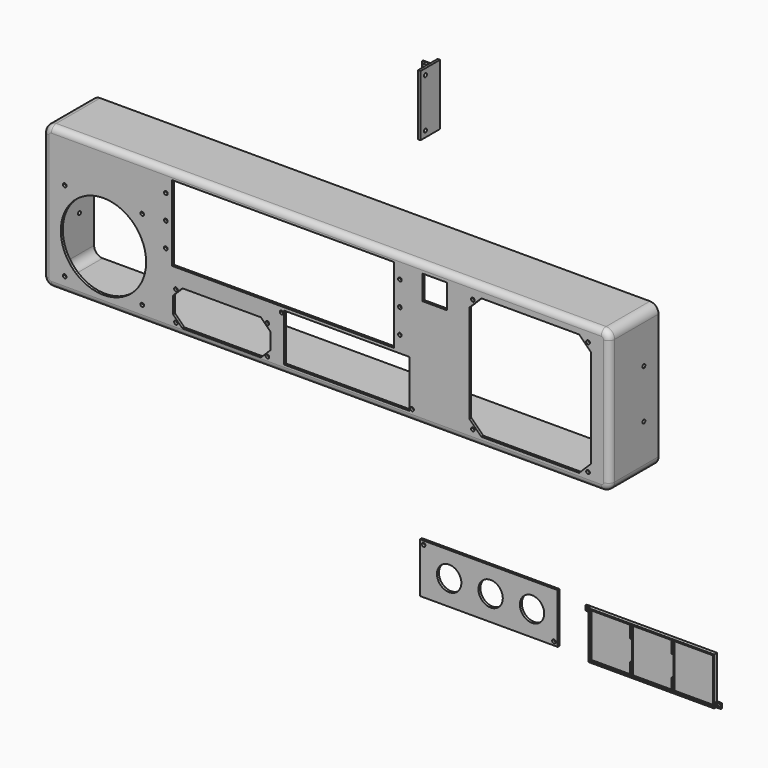
from build123d import *

# Parameters (mm, degrees)
F0_W            = 465
F0_H            = 117
F1_DEPTH        = 50
F2_T            = -2
F4_R            = 7
F3_W            = 182
F3_H            = 62
F3_W_2          = 20
F3_H_2          = 20
F3_R            = 1.5
F3_W_3          = 93
F3_H_3          = 36
F3_R_2          = 9.5
F3_R_3          = 35
F3_W_4          = 103
F3_H_4          = 39
F5_DEPTH        = 25
F6_R            = 5
F8_R            = 1.5
F9_DEPTH        = 500
F10_W           = 20
F10_H           = 50
F10_R           = 1.5
F11_DEPTH       = 2
F12_W           = 12
F12_H           = 40
F13_DEPTH       = 2
F15_D           = 3
F15_CSINK_D     = 5.7
F15_CSINK_ANGLE = 90
F16_SIZE        = 1
F17_W           = 113
F17_H           = 41
F17_R           = 1.5
F17_R_2         = 10
F18_DEPTH       = 2
F20_DEPTH       = 3
F19_W           = 4
F19_H           = 4
F19_R           = 1.5
F21_DEPTH       = 1
F23_DEPTH       = 2
F22_W           = 1
F22_H           = 17
F24_DEPTH       = 3


with BuildPart() as f1:
    # F0 (on Front) → F1 (new body)
    with BuildSketch(Plane.XZ):
        with Locations((-12.6529467106, 27.1878533959)):
            Rectangle(F0_W, F0_H)
        with Locations((-12.6529467106, 27.1878533959)):
            Rectangle(F0_W, F0_H)
    extrude(amount=F1_DEPTH)

    # F2
    f2_openings = [f1.faces().sort_by_distance(p)[0] for p in [
        (-12.652947, 0, 27.187853),
    ]]
    offset(amount=F2_T, openings=f2_openings)

    # F4
    f4_edges = [f1.edges().sort_by_distance(p)[0] for p in [
        (-245.152947, -25, 85.687853),
        (219.847053, -25, 85.687853),
        (219.847053, -25, -31.312147),
        (-245.152947, -25, -31.312147),
        (-243.152947, -24, 83.687853),
        (-243.152947, -24, -29.312147),
        (217.847053, -24, -29.312147),
        (217.847053, -24, 83.687853),
    ]]
    fillet(f4_edges, radius=F4_R)

    # F3 (on face) → F5 (cut)
    with BuildSketch(Plane.XZ.offset(50)):
        with Locations((-48.312419115, 48.0203691069)):
            Rectangle(F3_W, F3_H)
        with Locations((76.3836680665, 68.3190373614)):
            Rectangle(F3_W_2, F3_H_2)
        Polygon((194.7213235501, 76.111191912), (114.5203134233, 76.111191912), (104.6208184867, 66.2116969754), (104.6208184867, -13.9893131514), (114.5203134233, -23.888808088), (194.7213235501, -23.888808088), (204.6208184867, -13.9893131514), (204.6208184867, 66.2116969754), align=None)
        with Locations((47.687580885, 68.0203691069)):
            Circle(F3_R)
        with Locations((47.687580885, 48.0203691069)):
            Circle(F3_R)
        with Locations((47.687580885, 28.0203691069)):
            Circle(F3_R)
        with Locations((107.5167332374, 72.8625404379)):
            Circle(F3_R)
        with Locations((80.878779198, -82.3583360478)):
            Rectangle(F3_W_3, F3_H_3)
        with Locations((51.3206828289, -84.0745766136)):
            Circle(F3_R_2, mode=Mode.SUBTRACT)
        with Locations((81.3476530956, -84.0745766136)):
            Circle(F3_R_2, mode=Mode.SUBTRACT)
        with Locations((38.378779198, -68.3583360478)):
            Circle(F3_R, mode=Mode.SUBTRACT)
        with Locations((123.378779198, -96.3583360478)):
            Circle(F3_R, mode=Mode.SUBTRACT)
        with Locations((110.7360261029, -84.0745766136)):
            Circle(F3_R_2, mode=Mode.SUBTRACT)
        Polygon((-66.2842570873, 3.6055132091), (-130.7279079012, 3.6055132091), (-138.5060824942, -4.172661384), (-138.5060824942, -17.6163121979), (-130.7279079012, -25.3944867909), (-66.2842570873, -25.3944867909), (-58.5060824942, -17.6163121979), (-58.5060824942, -4.172661384), align=None)
        with Locations((-136.0060824942, 1.1055132091)):
            Circle(F3_R)
        with Locations((-136.0060824942, -22.8944867909)):
            Circle(F3_R)
        with Locations((-61.0060824942, 1.1055132091)):
            Circle(F3_R)
        with Locations((-61.0060824942, -22.8944867909)):
            Circle(F3_R)
        with Locations((107.5167332374, -20.8455865502)):
            Circle(F3_R)
        with Locations((202.0370356229, -20.8455660029)):
            Circle(F3_R)
        with Locations((202.0370356229, 72.8625404379)):
            Circle(F3_R)
        with Locations((-195.4793932134, 12.7347313118)):
            Circle(F3_R_3)
        with Locations((-144.312419115, 68.0203691069)):
            Circle(F3_R)
        with Locations((-144.312419115, 48.0203691069)):
            Circle(F3_R)
        with Locations((-144.312419115, 28.0203691069)):
            Circle(F3_R)
        with Locations((-227.2830040105, 46.6578847659)):
            Circle(F3_R)
        with Locations((-227.2830040105, -19.1012599602)):
            Circle(F3_R)
        with Locations((-163.6415483004, -19.1012599602)):
            Circle(F3_R)
        with Locations((-163.6757824164, 46.6578847659)):
            Circle(F3_R)
        with Locations((-49.3271809206, 12.611191912)):
            Circle(F3_R)
        with Locations((57.6728190794, -22.388808088)):
            Circle(F3_R)
        with Locations((4.1728190794, -4.888808088)):
            Rectangle(F3_W_4, F3_H_4)
    extrude(amount=-F5_DEPTH, mode=Mode.SUBTRACT)

    # F6
    f6_edges = [f1.edges().sort_by_distance(p)[0] for p in [
        (217.796801, -50, 83.637601),
    ]]
    fillet(f6_edges, radius=F6_R)

    # F8 (on face) → F9 (cut)
    with BuildSketch(Plane(origin=(-245.1529467106, 0, 0), x_dir=(0, -1, 0), z_dir=(-1, 0, 0))):
        with Locations((15, 47.1878533959)):
            Circle(F8_R)
        with Locations((15, 7.1878533959)):
            Circle(F8_R)
    extrude(amount=-F9_DEPTH, mode=Mode.SUBTRACT)


with BuildPart() as f11:
    # F10 (on Right) → F11 (new body)
    with BuildSketch(Plane.YZ):
        with Locations((38.3660052121, 146.8174463511)):
            Rectangle(F10_W, F10_H)
        with Locations((33.3660052121, 126.8174463511)):
            Circle(F10_R, mode=Mode.SUBTRACT)
        with Locations((33.3660052121, 166.8174463511)):
            Circle(F10_R, mode=Mode.SUBTRACT)
    extrude(amount=F11_DEPTH)

    # F12 (on face) → F13 (join)
    with BuildSketch(Plane(origin=(0, 48.3660052121, 0), x_dir=(-1, 0, 0), z_dir=(0, 1, 0))):
        with Locations((6, 146.8174463511)):
            Rectangle(F12_W, F12_H)
    extrude(amount=-F13_DEPTH)

    # F15 (through all)
    with Locations(Plane.XZ.offset(-46.3660052121)):
        with Locations((-7, 156.8174463511), (-7, 136.8174463511)):
            CounterSinkHole(F15_D / 2, F15_CSINK_D / 2, counter_sink_angle=F15_CSINK_ANGLE)

    # F16
    f16_edges = [f11.edges().sort_by_distance(p)[0] for p in [
        (-6, 46.366005, 166.817446),
        (-12, 46.366005, 146.817446),
        (-6, 46.366005, 126.817446),
    ]]
    chamfer(f16_edges, length=F16_SIZE)


with BuildPart() as f18:
    # F17 (on Front) → F18 (new body)
    with BuildSketch(Plane.XZ):
        with Locations((82.2173821926, -166.7715502977)):
            Rectangle(F17_W, F17_H)
        with Locations((135.7173821926, -184.2715502977)):
            Circle(F17_R, mode=Mode.SUBTRACT)
        with Locations((49.7173821926, -166.7715502977)):
            Circle(F17_R_2, mode=Mode.SUBTRACT)
        with Locations((28.7173821926, -149.2715502977)):
            Circle(F17_R, mode=Mode.SUBTRACT)
        with Locations((83.7173821926, -166.7715502977)):
            Circle(F17_R_2, mode=Mode.SUBTRACT)
        with Locations((117.7173821926, -166.7715502977)):
            Circle(F17_R_2, mode=Mode.SUBTRACT)
    extrude(amount=F18_DEPTH)


with BuildPart() as f20:
    # F19 (on Front) → F20 (new body)
    with BuildSketch(Plane.XZ):
        Polygon((267.8700156212, -150.314532876), (164.8700156212, -150.314532876), (164.8700156212, -154.314532876), (164.8700156212, -189.314532876), (267.8700156212, -189.314532876), (267.8700156212, -185.314532876), align=None)
    extrude(amount=F20_DEPTH)

    # F19 (on Front) → F21 (join)
    with BuildSketch(Plane.XZ):
        with Locations((162.8700156212, -152.314532876)):
            Rectangle(F19_W, F19_H)
        with Locations((162.8700156212, -152.314532876)):
            Circle(F19_R, mode=Mode.SUBTRACT)
        with Locations((269.8700156212, -187.314532876)):
            Rectangle(F19_W, F19_H)
        with Locations((269.8700156212, -187.314532876)):
            Circle(F19_R, mode=Mode.SUBTRACT)
    extrude(amount=F21_DEPTH)

    # F22 (on face) → F23 (cut)
    with BuildSketch(Plane.XZ.offset(3)):
        Polygon((198.8700156212, -151.314532876), (165.8700156212, -151.314532876), (165.8700156212, -188.314532876), (198.8700156212, -188.314532876), (198.8700156212, -178.314532876), (198.8700156212, -161.314532876), align=None)
        Polygon((199.8700156212, -151.314532876), (199.8700156212, -161.314532876), (199.8700156212, -178.314532876), (199.8700156212, -188.314532876), (232.8700156212, -188.314532876), (232.8700156212, -178.314532876), (232.8700156212, -161.314532876), (232.8700156212, -151.314532876), align=None)
        Polygon((233.8700156212, -151.314532876), (233.8700156212, -161.314532876), (233.8700156212, -178.314532876), (233.8700156212, -188.314532876), (266.8700156212, -188.314532876), (266.8700156212, -151.314532876), align=None)
    extrude(amount=-F23_DEPTH, mode=Mode.SUBTRACT)

    # F22 (on face) → F24 (cut)
    with BuildSketch(Plane.XZ.offset(3)):
        with Locations((199.3700156212, -169.814532876)):
            Rectangle(F22_W, F22_H)
        with Locations((233.3700156212, -169.814532876)):
            Rectangle(F22_W, F22_H)
    extrude(amount=-F24_DEPTH, mode=Mode.SUBTRACT)


solid = Compound([f1.part, f11.part, f18.part, f20.part])
